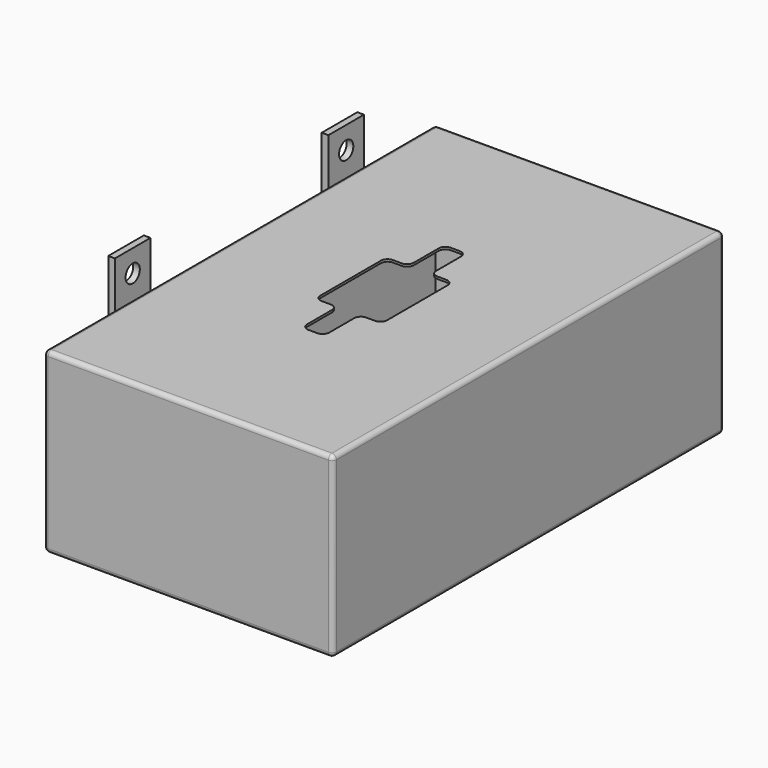
from build123d import *

# Parameters (mm, degrees)
F0_W     = 130
F0_H     = 220
F1_DEPTH = 40
F2_T     = -1
F4_DEPTH = 1
F5_R     = 2
F6_W     = 20
F6_H     = 120
F6_R     = 4
F7_DEPTH = 3


with BuildPart() as f1:
    # F0 (on Top) → F1 (new body, symmetric)
    with BuildSketch(Plane.XY):
        Rectangle(F0_W, F0_H)
    extrude(amount=F1_DEPTH, both=True)

    # F2 (hollow: no face is removed)
    offset(amount=F2_T, mode=Mode.SUBTRACT)

    # F3 (on face) → F4 (cut, through all)
    with BuildSketch(Plane.XY.offset(40)):
        with BuildLine():
            Line((2, 40), (-2, 40))
            ThreePointArc((-2, 40), (-4.1213203436, 39.1213203436), (-5, 37))
            Line((-5, 37), (-5, 23))
            ThreePointArc((-5, 23), (-5.8786796564, 20.8786796564), (-8, 20))
            Line((-8, 20), (-12, 20))
            ThreePointArc((-12, 20), (-14.1213203436, 19.1213203436), (-15, 17))
            Line((-15, 17), (-15, -17))
            ThreePointArc((-15, -17), (-14.1213203436, -19.1213203436), (-12, -20))
            Line((-12, -20), (-8, -20))
            ThreePointArc((-8, -20), (-5.8786796564, -20.8786796564), (-5, -23))
            Line((-5, -23), (-5, -37))
            ThreePointArc((-5, -37), (-4.1213203436, -39.1213203436), (-2, -40))
            Line((-2, -40), (2, -40))
            ThreePointArc((2, -40), (4.1213203436, -39.1213203436), (5, -37))
            Line((5, -37), (5, -23))
            ThreePointArc((5, -23), (5.8786796564, -20.8786796564), (8, -20))
            Line((8, -20), (12, -20))
            ThreePointArc((12, -20), (14.1213203436, -19.1213203436), (15, -17))
            Line((15, -17), (15, 17))
            ThreePointArc((15, 17), (14.1213203436, 19.1213203436), (12, 20))
            Line((12, 20), (8, 20))
            ThreePointArc((8, 20), (5.8786796564, 20.8786796564), (5, 23))
            Line((5, 23), (5, 37))
            ThreePointArc((5, 37), (4.1213203436, 39.1213203436), (2, 40))
        make_face()
    extrude(amount=-F4_DEPTH, mode=Mode.SUBTRACT)

    # F5
    f5_edges = [f1.edges().sort_by_distance(p)[0] for p in [
        (65, 0, -40),
        (65, 110, 0),
        (65, 0, 40),
        (65, -110, 0),
        (-65, 110, 0),
        (-65, 0, -40),
        (-65, -110, 0),
        (-65, 0, 40),
        (0, 110, -40),
        (0, -110, -40),
        (0, 110, 40),
        (0, -110, 40),
    ]]
    fillet(f5_edges, radius=F5_R)

    # F6 (on face) → F7 (join)
    with BuildSketch(Plane(origin=(-65, 0, 0), x_dir=(0, -1, 0), z_dir=(-1, 0, 0))):
        with Locations((-60, 0)):
            Rectangle(F6_W, F6_H)
        with Locations((-60, -50)):
            Circle(F6_R, mode=Mode.SUBTRACT)
        with Locations((-60, 50)):
            Circle(F6_R, mode=Mode.SUBTRACT)
        with Locations((60, 0)):
            Rectangle(F6_W, F6_H)
        with Locations((60, -50)):
            Circle(F6_R, mode=Mode.SUBTRACT)
        with Locations((60, 50)):
            Circle(F6_R, mode=Mode.SUBTRACT)
    extrude(amount=F7_DEPTH)


solid = f1.part
